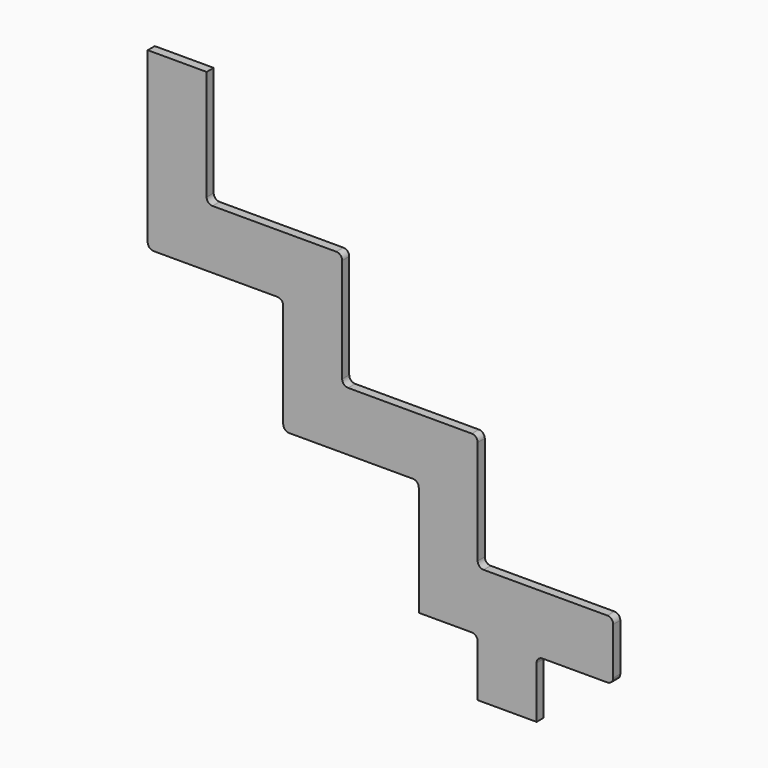
from build123d import *

# Parameters (mm, degrees)
F1_DEPTH = 15


with BuildPart() as f1:
    # F0 (on Front) → F1 (new body)
    with BuildSketch(Plane.XZ):
        with BuildLine():
            Line((100, -87), (100, 100))
            Line((100, 100), (0, 100))
            Line((0, 100), (0, -187))
            ThreePointArc((0, -187), (2.928932, -194.071068), (10, -197))
            Line((10, -197), (220, -197))
            ThreePointArc((220, -197), (227.071068, -199.928932), (230, -207))
            Line((230, -207), (230, -384))
            ThreePointArc((230, -384), (232.928932, -391.071068), (240, -394))
            Line((240, -394), (450, -394))
            ThreePointArc((450, -394), (457.071068, -396.928932), (460, -404))
            Line((460, -404), (460, -591))
            Line((460, -591), (550, -591))
            ThreePointArc((550, -591), (557.071068, -593.928932), (560, -601))
            Line((560, -601), (560, -689))
            Line((560, -689), (660, -689))
            Line((660, -689), (660, -601))
            ThreePointArc((660, -601), (662.928932, -593.928932), (670, -591))
            Line((670, -591), (780, -591))
            ThreePointArc((780, -591), (787.071068, -588.071068), (790, -581))
            Line((790, -581), (790, -501))
            ThreePointArc((790, -501), (787.071068, -493.928932), (780, -491))
            Line((780, -491), (570, -491))
            ThreePointArc((570, -491), (562.928932, -488.071068), (560, -481))
            Line((560, -481), (560, -304))
            ThreePointArc((560, -304), (557.071068, -296.928932), (550, -294))
            Line((550, -294), (340, -294))
            ThreePointArc((340, -294), (332.928932, -291.071068), (330, -284))
            Line((330, -284), (330, -107))
            ThreePointArc((330, -107), (327.071068, -99.928932), (320, -97))
            Line((320, -97), (110, -97))
            ThreePointArc((110, -97), (102.928932, -94.071068), (100, -87))
        make_face()
    extrude(amount=F1_DEPTH)


solid = f1.part
